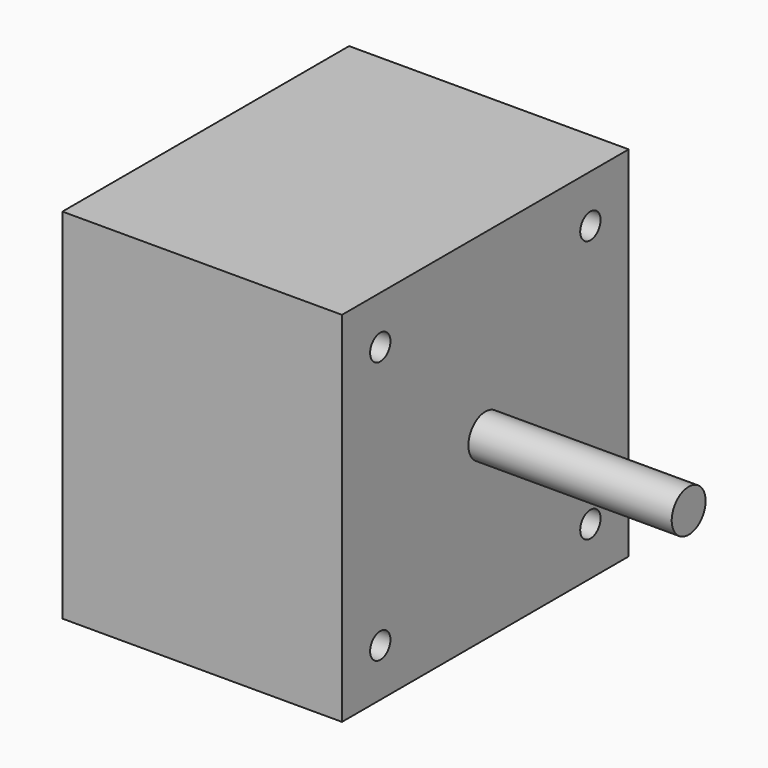
from build123d import *

# Parameters (mm, degrees)
SKETCH_W     = 33
SKETCH_H     = 42.3
PAD_DEPTH    = 21.15
SKETCH001_R  = 2.5
PAD001_DEPTH = 24
SKETCH002_R  = 1.5
POCKET_DEPTH = 4.5


with BuildPart() as part:
    # Sketch → Pad (new body, symmetric)
    with BuildSketch(Plane.XY):
        Rectangle(SKETCH_W, SKETCH_H)
    extrude(amount=PAD_DEPTH, both=True)

    # Sketch001 (on Face1 of Pad) → Pad001 (join)
    with BuildSketch(Plane.YZ.offset(16.5)):
        Circle(SKETCH001_R)
    extrude(amount=PAD001_DEPTH)

    # Sketch002 (on Face1 of Pad001) → Pocket (cut)
    with BuildSketch(Plane.YZ.offset(16.5)):
        with Locations((-15.5, 15.5)):
            Circle(SKETCH002_R)
        with Locations((15.5, 15.5)):
            Circle(SKETCH002_R)
        with Locations((15.5, -15.5)):
            Circle(SKETCH002_R)
        with Locations((-15.5, -15.5)):
            Circle(SKETCH002_R)
    extrude(amount=-POCKET_DEPTH, mode=Mode.SUBTRACT)


solid = part.part
